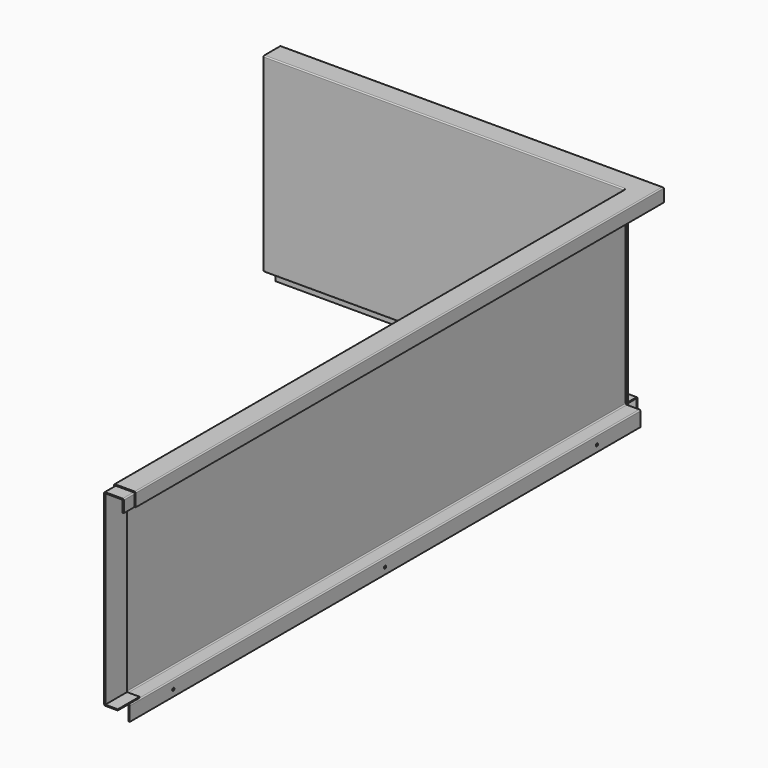
from build123d import *

# Parameters (mm, degrees)
F1_DEPTH       = 1174
F3_DEPTH       = 664
F4_W           = 40
F4_H           = 40
F5_DEPTH       = 4
F6_W           = 4
F6_H           = 4
F7_DEPTH       = 350
F8_R           = 2
F8_2_R         = 2
F8_3_R         = 2
F8_4_R         = 2
F10_DEPTH      = 21
F12_DEPTH      = 25
F12_DEPTH_BACK = 25
F15_D          = 5
F15_ON_F13_D   = 5


with BuildPart() as f1:
    # F0 (on Front) → F1 (new body)
    with BuildSketch(Plane.XZ):
        Polygon((38, -2), (38, -25), (40, -25), (40, 0), (0, 0), (0, -350), (27, -350), (27, -376), (29, -376), (29, -348), (2, -348), (2, -2), align=None)
    extrude(amount=F1_DEPTH)

    # F8
    f8_edges = [f1.edges().sort_by_distance(p)[0] for p in [
        (40, -587, 0),
        (29, -587, -348),
        (2, -587, -348),
        (0, -587, 0),
        (2, -587, -2),
        (38, -587, -2),
        (0, -587, -350),
        (27, -587, -350),
    ]]
    fillet(f8_edges, radius=F8_R)



with BuildPart() as f3:
    # F2 (on Right) → F3 (new body)
    with BuildSketch(Plane.YZ):
        Polygon((38, -2), (38, -25), (40, -25), (40, 0), (0, 0), (0, -350), (27, -350), (27, -376), (29, -376), (29, -348), (2, -348), (2, -2), align=None)
    extrude(amount=-F3_DEPTH)

    # F8#2
    f8_2_edges = [f3.edges().sort_by_distance(p)[0] for p in [
        (-332, 40, 0),
        (-332, 29, -348),
        (-332, 2, -348),
        (-332, 0, 0),
        (-332, 2, -2),
        (-332, 38, -2),
        (-332, 0, -350),
        (-332, 27, -350),
    ]]
    fillet(f8_2_edges, radius=F8_2_R)


with BuildPart() as f5:
    # F4 (on Top) → F5 (new body)
    with BuildSketch(Plane.XY):
        with Locations((20, 20)):
            Rectangle(F4_W, F4_H)
    extrude(amount=-F5_DEPTH)

    # F8#4
    f8_4_edges = [f5.edges().sort_by_distance(p)[0] for p in [
        (40, 20, 0),
        (20, 40, 0),
    ]]
    fillet(f8_4_edges, radius=F8_4_R)


with BuildPart() as f7:
    # F6 (on Top) → F7 (new body)
    with BuildSketch(Plane.XY):
        with Locations((2, 2)):
            Rectangle(F6_W, F6_H)
    extrude(amount=-F7_DEPTH)

    # F8#3
    f8_3_edges = [f7.edges().sort_by_distance(p)[0] for p in [
        (4, 4, -175),
    ]]
    fillet(f8_3_edges, radius=F8_3_R)


with BuildPart() as f10:
    # F9 (on face) → F10 (new body)
    with BuildSketch(Plane(origin=(0, 0, -4), x_dir=(1, 0, 0), z_dir=(0, 0, -1))):
        Polygon((40, -40), (40, 0), (36, 0), (36, -36), (0, -36), (0, -40), align=None)
    extrude(amount=F10_DEPTH)


with BuildPart() as f1_1:
    add(f1.part)

    add(f3.part)  # F12 merges F3

    add(f5.part)  # F12 merges F5

    add(f7.part)  # F12 merges F7

    add(f10.part)  # F12 merges F10
    # F11 (on face) → F12 (join, two sides)
    with BuildSketch(Plane.XZ.offset(1174)) as f12_sk:
        with BuildLine():
            Line((27, -346), (4, -346))
            Line((4, -346), (4, -4))
            Line((4, -4), (36, -4))
            Line((36, -4), (36, -25))
            Line((36, -25), (38, -25))
            Line((38, -25), (38, -4))
            ThreePointArc((38, -4), (37.4142135624, -2.5857864376), (36, -2))
            Line((36, -2), (4, -2))
            ThreePointArc((4, -2), (2.5857864376, -2.5857864376), (2, -4))
            Line((2, -4), (2, -346))
            ThreePointArc((2, -346), (2.5857864376, -347.4142135624), (4, -348))
            Line((4, -348), (27, -348))
            Line((27, -348), (27, -346))
        make_face()
    extrude(amount=F12_DEPTH)
    extrude(f12_sk.sketch, amount=-F12_DEPTH_BACK)

    # F15 (through all)
    with Locations(Plane(origin=(27, 0, 0), x_dir=(0, -1, 0), z_dir=(-1, 0, 0))):
        with Locations((100, -364), (587, -364), (1074, -364)):
            Hole(F15_D / 2)

    # F15 on F13 (through all)
    with Locations(Plane.XZ.offset(-27)):
        with Locations((-100, -364), (-332, -364), (-564, -364)):
            Hole(F15_ON_F13_D / 2)


solid = f1_1.part
